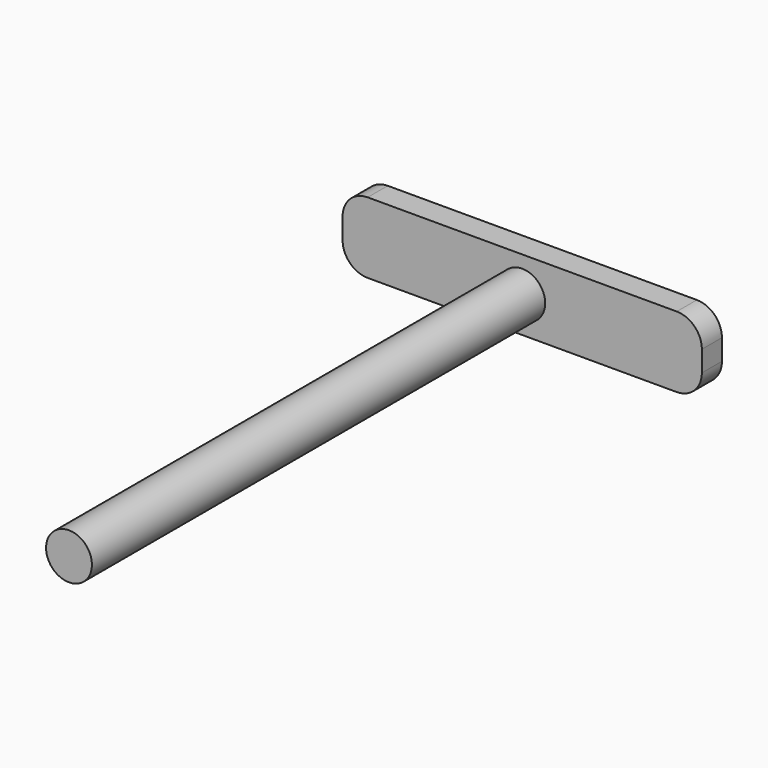
from build123d import *

# Parameters (mm, degrees)
F0_W     = 0.929184
F0_H     = 23.972953
F3_DEPTH = 1.016


with BuildPart() as f1:
    # F0 (on Top) → F1 (revolve)
    with BuildSketch(Plane.XY):
        with Locations((-62.214408, 0.097652)):
            Rectangle(F0_W, F0_H)
    revolve(axis=Axis((-61.749816, 0.848013, 0), (0, -1, 0)))

    # F2 (on face) → F3 (join)
    with BuildSketch(Plane(origin=(0, 12.084128, 0), x_dir=(-1, 0, 0), z_dir=(0, 1, 0))):
        with BuildLine():
            Line((68.013, 1.437184), (55.486632, 1.437184))
            ThreePointArc((55.486632, 1.437184), (54.768211, 1.139605), (54.470632, 0.421184))
            Line((54.470632, 0.421184), (54.470632, -0.421184))
            ThreePointArc((54.470632, -0.421184), (54.768211, -1.139605), (55.486632, -1.437184))
            Line((55.486632, -1.437184), (68.013, -1.437184))
            ThreePointArc((68.013, -1.437184), (68.731421, -1.139605), (69.029, -0.421184))
            Line((69.029, -0.421184), (69.029, 0.421184))
            ThreePointArc((69.029, 0.421184), (68.731421, 1.139605), (68.013, 1.437184))
        make_face()
    extrude(amount=-F3_DEPTH)


solid = f1.part
